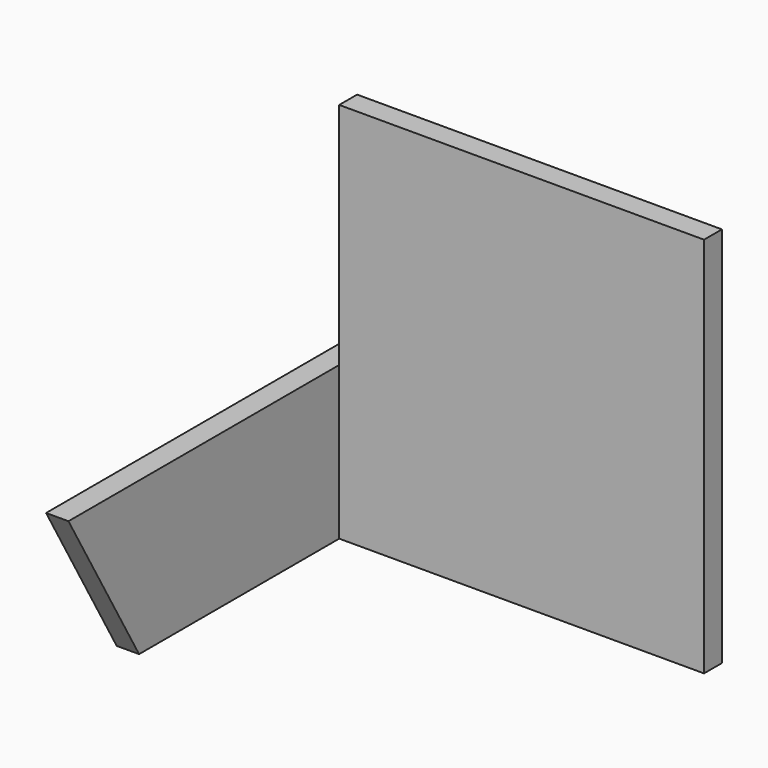
from build123d import *

# Parameters (mm, degrees)
PAD_DEPTH    = 2
SKETCH001_W  = 2
SKETCH001_H  = 34.122
PAD001_DEPTH = 32.6


with BuildPart() as part:
    # Sketch → Pad (new body)
    with BuildSketch(Plane.YZ):
        Polygon((-23.355, 0), (23.355, 0), (23.355, 13.665881), (-31.245, 13.665881), align=None)
    extrude(amount=PAD_DEPTH)

    # Sketch001 (on Face6 of Pad) → Pad001 (join)
    with BuildSketch(Plane.YZ.offset(2)):
        with Locations((0, 17.061)):
            Rectangle(SKETCH001_W, SKETCH001_H)
    extrude(amount=PAD001_DEPTH)


solid = part.part
